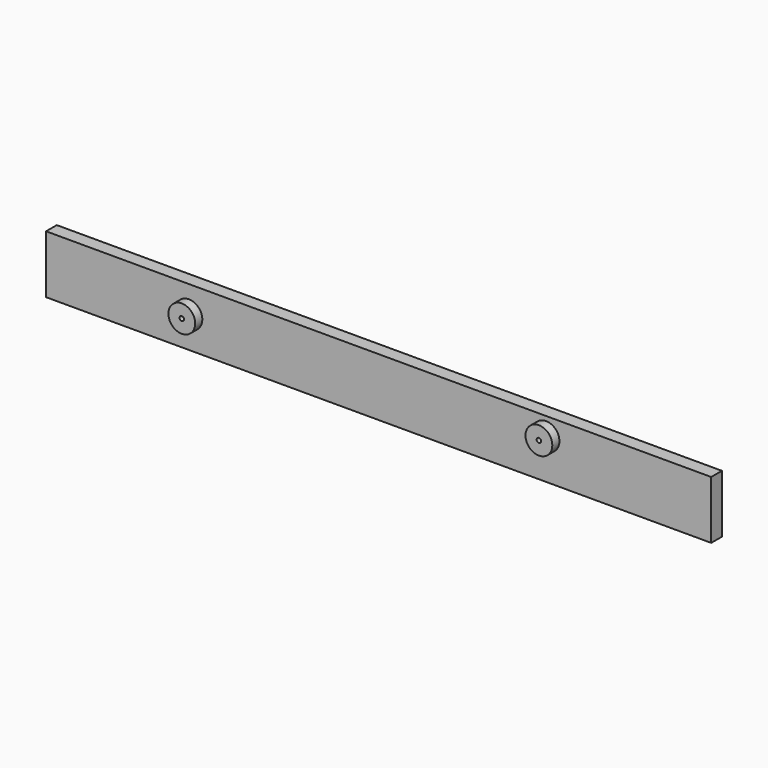
from build123d import *

# Parameters (mm, degrees)
F0_W     = 149
F0_H     = 13
F1_DEPTH = 3
F2_R     = 3
F3_DEPTH = 2
F4_D     = 1


with BuildPart() as f1:
    # F0 (on Front) → F1 (new body)
    with BuildSketch(Plane.XZ):
        with Locations((-4.2446807389, -6.5)):
            Rectangle(F0_W, F0_H)
    extrude(amount=F1_DEPTH)

    # F2 (on face) → F3 (join)
    with BuildSketch(Plane.XZ.offset(3)):
        with Locations((-46.7446807389, -6)):
            Circle(F2_R)
        with Locations((33.2553192611, -4)):
            Circle(F2_R)
    extrude(amount=F3_DEPTH)

    # F4 (through all)
    with Locations(Plane(origin=(0, 0, 0), x_dir=(1, 0, 0), z_dir=(0, 1, 0))):
        with Locations((-46.7446807389, 6), (33.2553192611, 4)):
            Hole(F4_D / 2)


solid = f1.part
